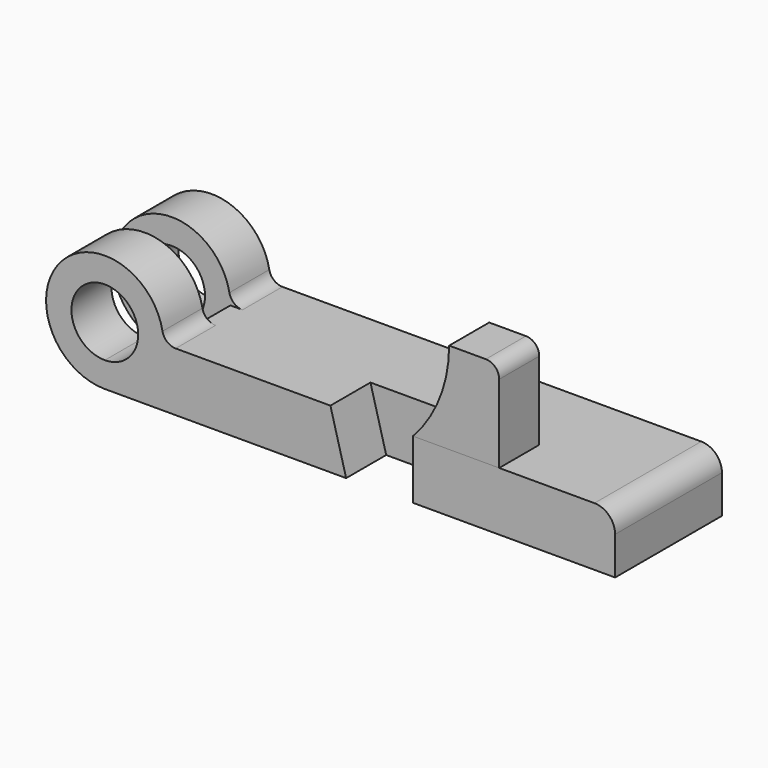
from build123d import *

# Parameters (mm, degrees)
F1_DEPTH = 50.8
F2_DEPTH = 19.05
F3_DEPTH = 19.05
F4_W     = 50.9246974253
F4_H     = 12.8016
F5_DEPTH = 25.4
F6_R     = 5.08
F7_R     = 7.874
F8_R     = 5.08


with BuildPart() as f1:
    # F0 (on Front) → F1 (new body)
    with BuildSketch(Plane.XZ):
        Polygon((117.2464, 0), (117.2464, -22.352), (194.2084, -22.352), (194.2084, 0), (150.0886, 0), align=None)
        Polygon((85.852, 0), (91.8464, -22.352), (117.2464, -22.352), (117.2464, 0), align=None)
        with BuildLine():
            ThreePointArc((22.352, 0), (-15.8052507731, 15.8052507731), (0, -22.352))
            Line((0, -22.352), (91.8464, -22.352))
            Line((91.8464, -22.352), (85.852, 0))
            Line((85.852, 0), (22.352, 0))
        make_face()
        with BuildLine():
            ThreePointArc((0, -12.7), (-8.9802561211, 8.9802561211), (12.7, 0))
            ThreePointArc((12.7, 0), (8.9802561211, -8.9802561211), (0, -12.7))
        make_face(mode=Mode.SUBTRACT)
    extrude(amount=-F1_DEPTH)

    # F0 (on Front) → F3 (cut)
    with BuildSketch(Plane.XZ):
        Polygon((85.852, 0), (91.8464, -22.352), (117.2464, -22.352), (117.2464, 0), align=None)
    extrude(amount=-F3_DEPTH, mode=Mode.SUBTRACT)

    # F4 (on face) → F5 (cut, symmetric)
    with BuildSketch(Plane.XY):
        with Locations((-3.1103487127, 25.4)):
            Rectangle(F4_W, F4_H)
    extrude(amount=F5_DEPTH, both=True, mode=Mode.SUBTRACT)

    # F6
    f6_edges = [f1.edges().sort_by_distance(p)[0] for p in [
        (22.352, 9.4996, 0),
        (22.352, 41.3004, 0),
    ]]
    fillet(f6_edges, radius=F6_R)

    # F7
    f7_edges = [f1.edges().sort_by_distance(p)[0] for p in [
        (194.2084, 25.4, 0),
    ]]
    fillet(f7_edges, radius=F7_R)


with BuildPart() as f2:
    # F0 (on Front) → F2 (new body)
    with BuildSketch(Plane.XZ):
        with BuildLine():
            ThreePointArc((131.0386, 34.798), (127.4644153616, 16.0823576341), (117.2464, 0))
            Line((117.2464, 0), (150.0886, 0))
            Line((150.0886, 0), (150.0886, 34.798))
            Line((150.0886, 34.798), (131.0386, 34.798))
        make_face()
    extrude(amount=-F2_DEPTH)

    # F8
    f8_edges = [f2.edges().sort_by_distance(p)[0] for p in [
        (150.0886, 9.525, 34.798),
    ]]
    fillet(f8_edges, radius=F8_R)


solid = Compound([f1.part, f2.part])
